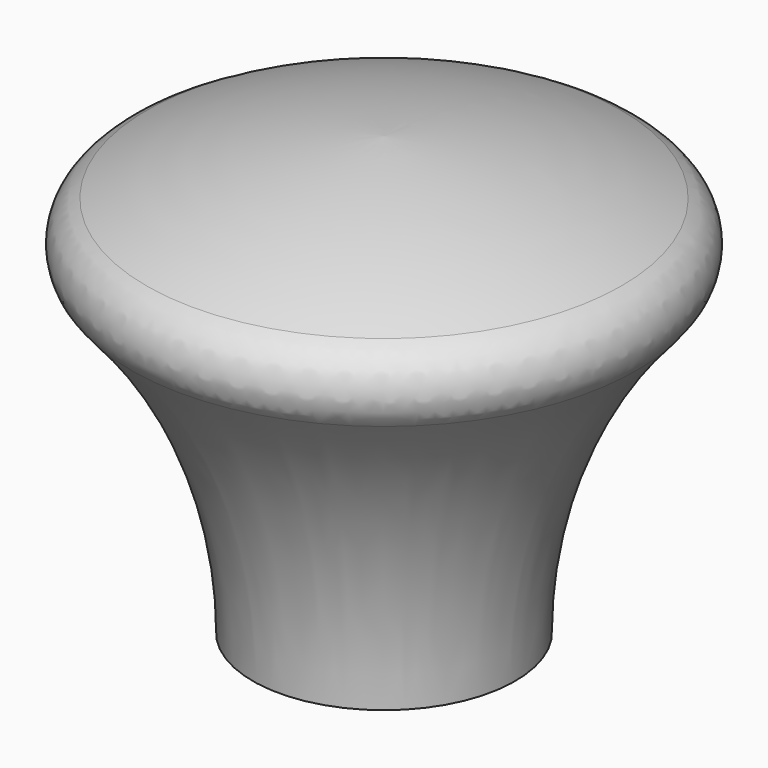
from build123d import *

# Parameters (mm, degrees)
FILLET_R        = 2
SKETCH058_R     = 2
POCKET019_DEPTH = 8


with BuildPart() as part:
    # Sketch057 → Revolution (revolve)
    with BuildSketch(Plane.YZ):
        with BuildLine():
            Line((0, 0), (6, 0))
            ThreePointArc((13.5059927831, 16.1981133693), (7.9676802815, 8.926348699), (6, 0))
            ThreePointArc((13.5059927831, 16.1981133693), (6.9719435328, 18.8768543405), (0, 20))
            Line((0, 0), (0, 20))
        make_face()
    revolve(axis=Axis((0, 0, 0), (0, 0, 1)))

    # Fillet
    fillet_edges = [part.edges().sort_by_distance(p)[0] for p in [
        (0, -13.505993, 16.198113),
    ]]
    fillet(fillet_edges, radius=FILLET_R)

    # Sketch058 (on Face3 of Fillet) → Pocket019 (cut)
    with BuildSketch(Plane.YX):
        Circle(SKETCH058_R)
    extrude(amount=-POCKET019_DEPTH, mode=Mode.SUBTRACT)


solid = part.part
